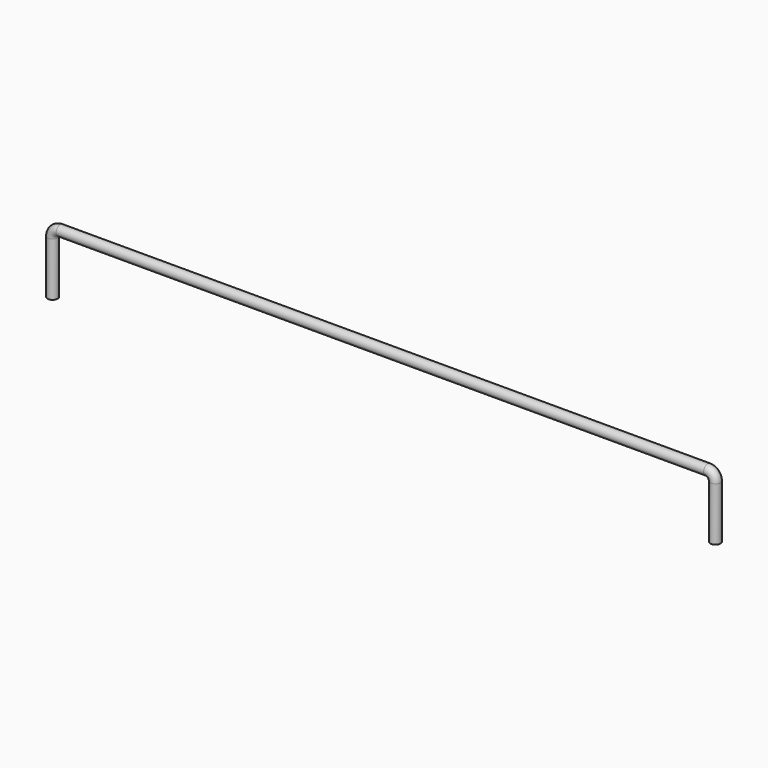
from build123d import *

# Parameters (mm, degrees)
F1_R = 4


with BuildPart() as f2:
    # F2: sweep along a path in F0
    with BuildLine(Plane.XZ) as f2_path:
        Line((-260, 0), (-260, 42))
        ThreePointArc((-260, 42), (-258.242641, 46.242641), (-254, 48))
        Line((-254, 48), (254, 48))
        ThreePointArc((254, 48), (258.242641, 46.242641), (260, 42))
        Line((260, 42), (260, 0))
    # F1 (on Top) → F2 (sweep)
    with BuildSketch(Plane.XY):
        with Locations((-260, 0)):
            Circle(F1_R)
    sweep(path=f2_path.line)


solid = f2.part
